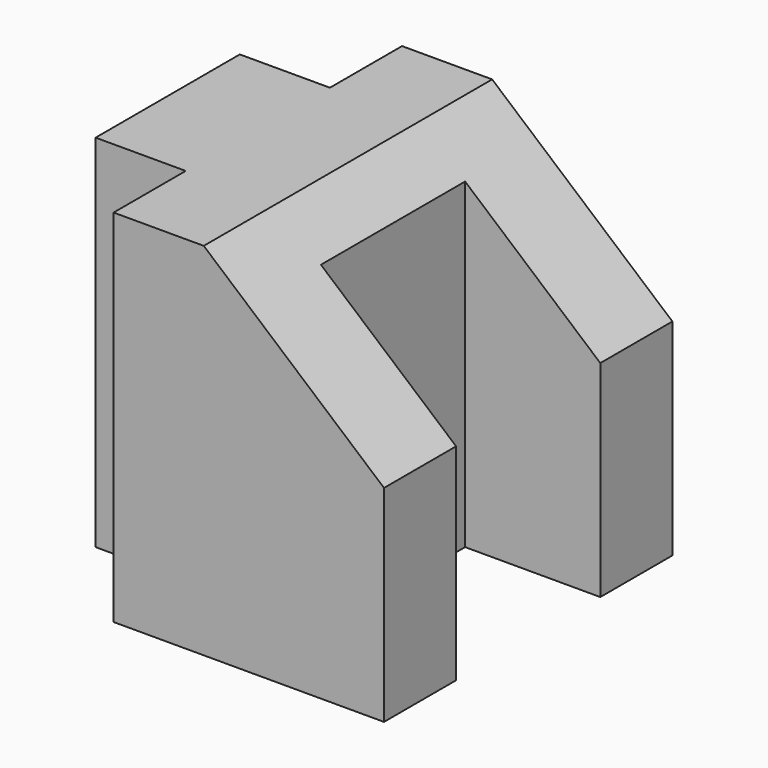
from build123d import *

# Parameters (mm, degrees)
F0_W     = 12.7
F0_H     = 50.8
F1_DEPTH = 25.4
F2_DEPTH = 12.7
F3_W     = 19.05
F3_H     = 25.4
F4_DEPTH = 50.8


with BuildPart() as f1:
    # F0 (on Front) → F1 (new body, symmetric)
    with BuildSketch(Plane.XZ):
        with Locations((6.35, 25.4)):
            Rectangle(F0_W, F0_H)
        Polygon((12.7, 50.8), (12.7, 0), (38.1, 0), (38.1, 29.028575), align=None)
    extrude(amount=F1_DEPTH, both=True)

    # F0 (on Front) → F2 (join, symmetric)
    with BuildSketch(Plane.XZ):
        with Locations((-6.35, 25.4)):
            Rectangle(F0_W, F0_H)
    extrude(amount=F2_DEPTH, both=True)

    # F3 (on Top) → F4 (cut)
    with BuildSketch(Plane.XY):
        with Locations((28.575, 0)):
            Rectangle(F3_W, F3_H)
    extrude(amount=F4_DEPTH, mode=Mode.SUBTRACT)


solid = f1.part
